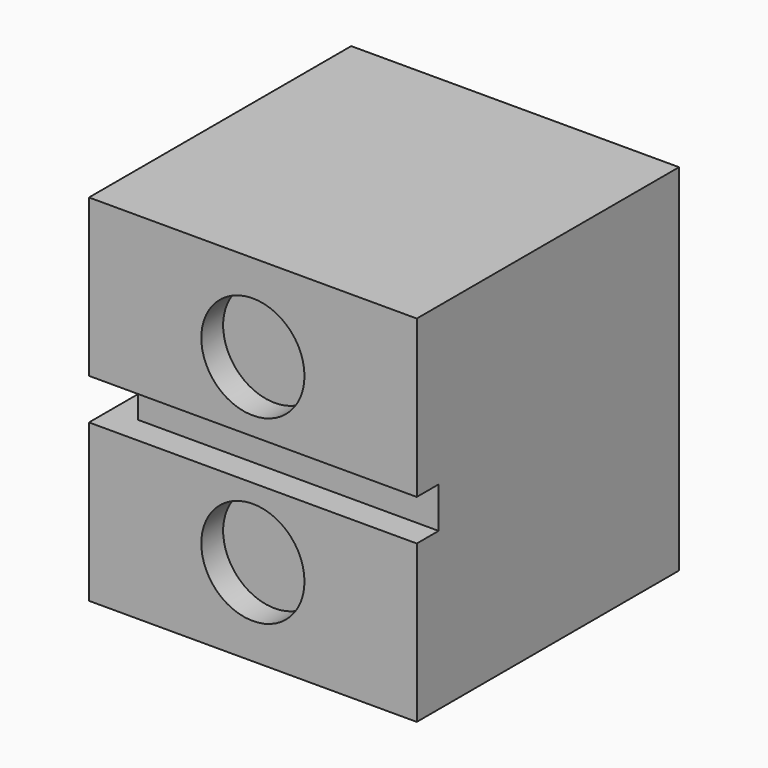
from build123d import *

# Parameters (mm, degrees)
F0_W     = 12
F0_H     = 12
F1_DEPTH = 13
F2_W     = 12
F2_H     = 1.5
F2_R     = 1.888457
F3_DEPTH = 1
F4_W     = 12
F4_H     = 1.5
F5_DEPTH = 1


with BuildPart() as f1:
    # F0 (on Top) → F1 (new body)
    with BuildSketch(Plane.XY):
        Rectangle(F0_W, F0_H)
    extrude(amount=F1_DEPTH)

    # F2 (on face) → F3 (cut)
    with BuildSketch(Plane.XZ.offset(6)):
        with Locations((0, 6.5)):
            Rectangle(F2_W, F2_H)
        with Locations((0, 9.811216)):
            Circle(F2_R)
        with Locations((0, 3.188784)):
            Circle(F2_R)
    extrude(amount=-F3_DEPTH, mode=Mode.SUBTRACT)

    # F4 (on face) → F5 (cut)
    with BuildSketch(Plane(origin=(-6, 0, 0), x_dir=(0, -1, 0), z_dir=(-1, 0, 0))):
        with Locations((0, 6.5)):
            Rectangle(F4_W, F4_H)
    extrude(amount=-F5_DEPTH, mode=Mode.SUBTRACT)


solid = f1.part
